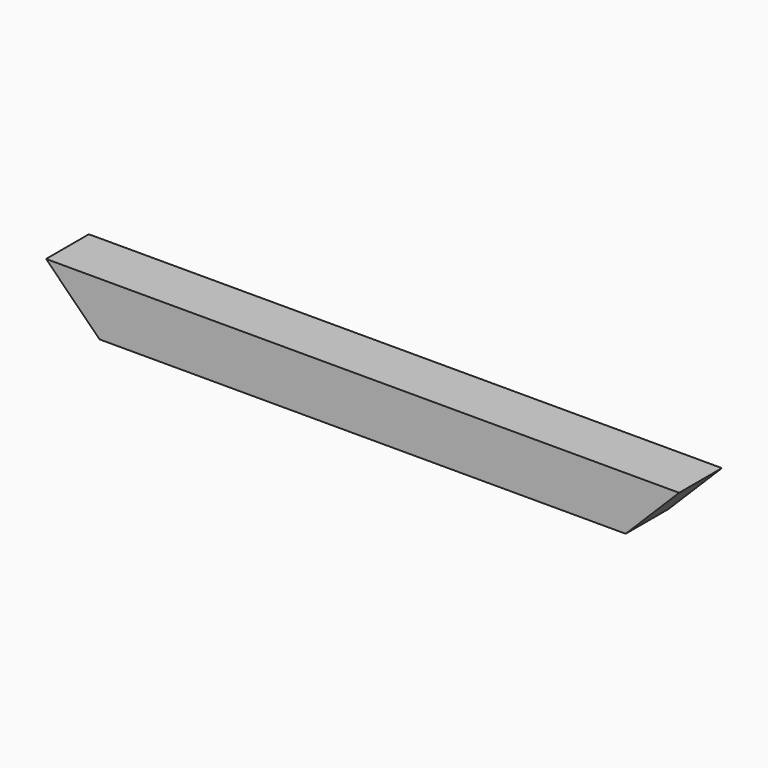
from build123d import *

# Parameters (mm, degrees)
F1_DEPTH = 38
F2_W     = 38
F2_H     = 374
F3_DEPTH = 38


with BuildPart() as f1:
    # F0 (on Front) → F1 (new body)
    with BuildSketch(Plane.XZ):
        Polygon((280.465763, 0), (-169.534237, 0), (-131.534237, -38), (242.465763, -38), align=None)
    extrude(amount=F1_DEPTH)


with BuildPart() as f3:
    # F2 (on Front) → F3 (new body)
    with BuildSketch(Plane.XZ):
        with Locations((-266.727887, -67.336804)):
            Rectangle(F2_W, F2_H)
    extrude(amount=F3_DEPTH)


solid = f1.part
